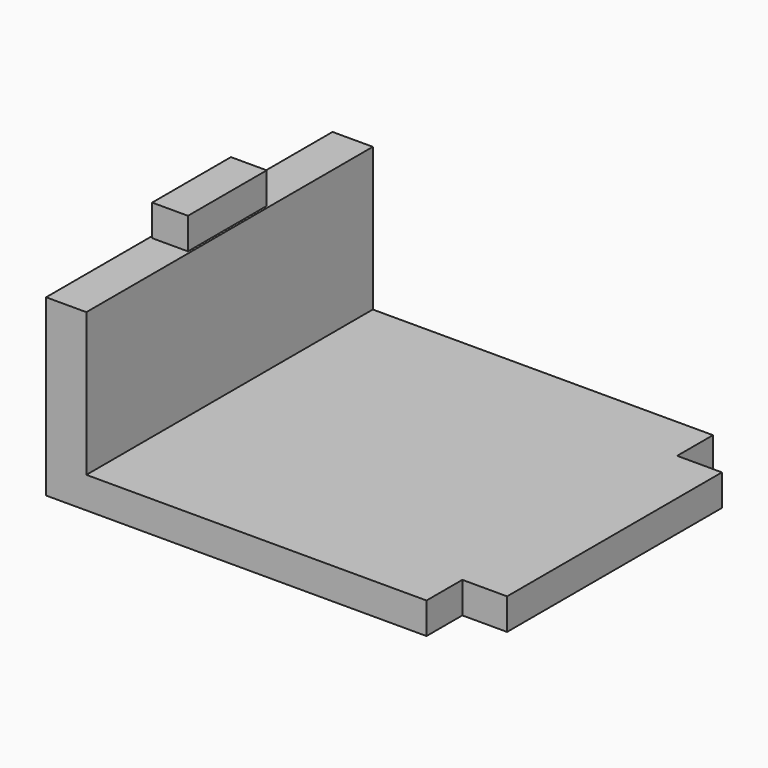
from build123d import *

# Parameters (mm, degrees)
PAD031_DEPTH = 1.4
SKETCH158_W  = 1.8
SKETCH158_H  = 16
PAD032_DEPTH = 6.4
SKETCH159_W  = 1.6
SKETCH159_H  = 4.4
PAD033_DEPTH = 1.4


with BuildPart() as part:
    # Sketch157 → Pad031 (new body)
    with BuildSketch(Plane.XY):
        Polygon((1.8, 8), (17, 8), (17, 6), (19, 6), (19, -6), (17, -6), (17, -8), (1.8, -8), (0, -8), (0, 8), align=None)
    extrude(amount=PAD031_DEPTH)

    # Sketch158 (on Face8 of Pad031) → Pad032 (join)
    with BuildSketch(Plane.XY.offset(1.4)):
        with Locations((0.9, 0)):
            Rectangle(SKETCH158_W, SKETCH158_H)
    extrude(amount=PAD032_DEPTH)

    # Sketch159 (on Face9 of Pad032) → Pad033 (join)
    with BuildSketch(Plane.XY.offset(7.8)):
        with Locations((0.9, 0)):
            Rectangle(SKETCH159_W, SKETCH159_H)
    extrude(amount=PAD033_DEPTH)


solid = part.part
